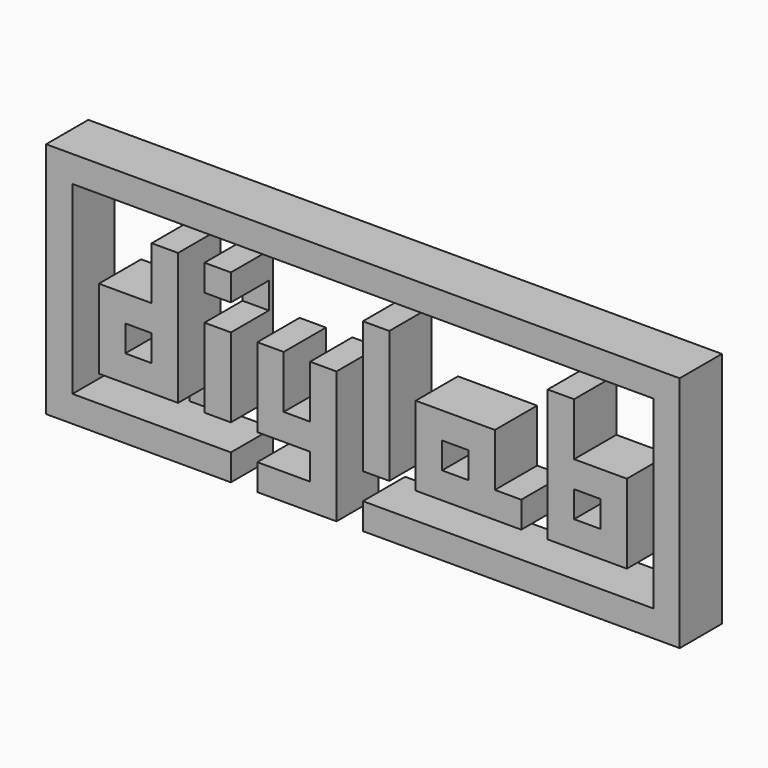
from build123d import *

# Parameters (mm, degrees)
F0_W     = 5
F0_H     = 5
F1_DEPTH = 10
F2_DEPTH = 1


with BuildPart() as f1:
    # F0 (on Front) → F1 (new body)
    with BuildSketch(Plane.XZ):
        Polygon((0, 0), (35, 0), (35, 5), (25, 5), (20, 5), (5, 5), (5, 10), (5, 15), (5, 40), (20, 40), (25, 40), (30, 40), (35, 40), (60, 40), (65, 40), (95, 40), (100, 40), (115, 40), (115, 15), (115, 10), (115, 5), (75, 5), (70, 5), (60, 5), (60, 0), (120, 0), (120, 45), (0, 45), align=None)
        Polygon((20, 10), (25, 10), (25, 15), (25, 35), (20, 35), (20, 25), (10, 25), (10, 15), (10, 10), align=None)
        with Locations((17.5, 17.5)):
            Rectangle(F0_W, F0_H, mode=Mode.SUBTRACT)
        with Locations((32.5, 32.5)):
            Rectangle(F0_W, F0_H)
        Polygon((30, 15), (30, 10), (35, 10), (35, 15), (35, 25), (30, 25), align=None)
        Polygon((40, 15), (40, 10), (50, 10), (50, 5), (40, 5), (40, 0), (55, 0), (55, 10), (55, 15), (55, 25), (50, 25), (50, 15), (45, 15), (45, 25), (40, 25), align=None)
        Polygon((60, 10), (65, 10), (65, 15), (65, 35), (60, 35), (60, 15), align=None)
        Polygon((70, 15), (70, 10), (75, 10), (90, 10), (90, 15), (85, 15), (85, 25), (70, 25), align=None)
        with Locations((77.5, 17.5)):
            Rectangle(F0_W, F0_H, mode=Mode.SUBTRACT)
        Polygon((95, 10), (110, 10), (110, 15), (110, 25), (100, 25), (100, 35), (95, 35), (95, 15), align=None)
        with Locations((102.5, 17.5)):
            Rectangle(F0_W, F0_H, mode=Mode.SUBTRACT)
    extrude(amount=F1_DEPTH)

    # F0 (on Front) → F2 (join)
    with BuildSketch(Plane.XZ):
        with Locations((22.5, 37.5)):
            Rectangle(F0_W, F0_H)
        with Locations((32.5, 37.5)):
            Rectangle(F0_W, F0_H)
        with Locations((32.5, 27.5)):
            Rectangle(F0_W, F0_H)
        with Locations((27.5, 12.5)):
            Rectangle(F0_W, F0_H)
        with Locations((22.5, 7.5)):
            Rectangle(F0_W, F0_H)
        with Locations((7.5, 12.5)):
            Rectangle(F0_W, F0_H)
        with Locations((37.5, 12.5)):
            Rectangle(F0_W, F0_H)
        with Locations((62.5, 37.5)):
            Rectangle(F0_W, F0_H)
        with Locations((97.5, 37.5)):
            Rectangle(F0_W, F0_H)
        with Locations((57.5, 12.5)):
            Rectangle(F0_W, F0_H)
        with Locations((67.5, 12.5)):
            Rectangle(F0_W, F0_H)
        with Locations((92.5, 12.5)):
            Rectangle(F0_W, F0_H)
        with Locations((112.5, 12.5)):
            Rectangle(F0_W, F0_H)
        with Locations((72.5, 7.5)):
            Rectangle(F0_W, F0_H)
    extrude(amount=F2_DEPTH)


solid = f1.part
